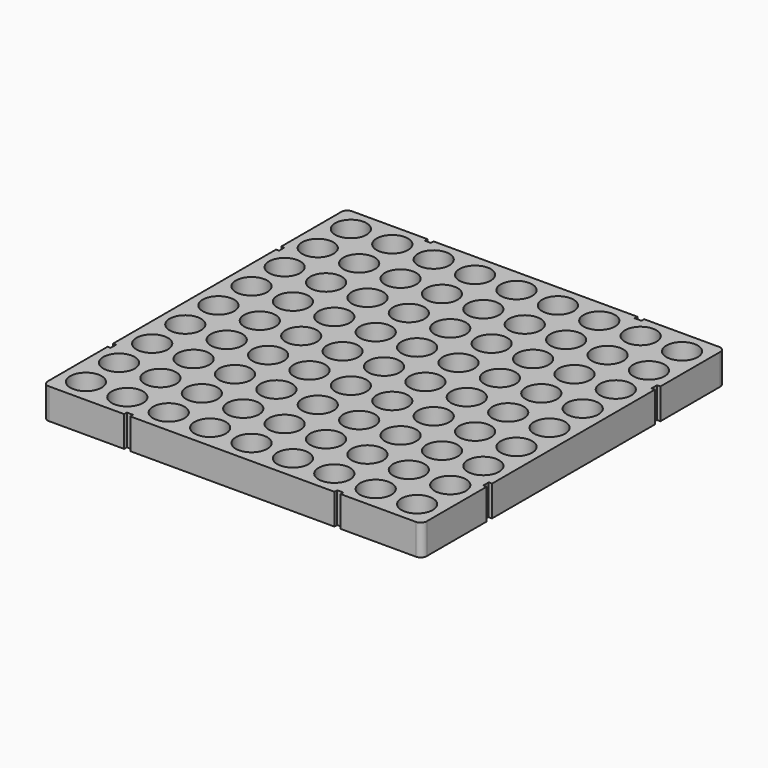
from build123d import *

# Parameters (mm, degrees)
F0_R     = 5.125
F2_DEPTH = 10
F1_W     = 2
F1_H     = 2.2
F1_W_2   = 2.2
F3_DEPTH = 10


with BuildPart() as f2:
    # F0 (on Top) → F2 (new body)
    with BuildSketch(Plane.XY):
        with BuildLine():
            ThreePointArc((61.8, 59.8), (61.214214, 61.214214), (59.8, 61.8))
            Line((59.8, 61.8), (-59.8, 61.8))
            ThreePointArc((-59.8, 61.8), (-61.214214, 61.214214), (-61.8, 59.8))
            Line((-61.8, 59.8), (-61.8, -59.8))
            ThreePointArc((-61.8, -59.8), (-61.214214, -61.214214), (-59.8, -61.8))
            Line((-59.8, -61.8), (59.8, -61.8))
            ThreePointArc((59.8, -61.8), (61.214214, -61.214214), (61.8, -59.8))
            Line((61.8, -59.8), (61.8, 59.8))
        make_face()
        with Locations((-54, -54)):
            Circle(F0_R, mode=Mode.SUBTRACT)
        with Locations((-40.5, -54)):
            Circle(F0_R, mode=Mode.SUBTRACT)
        with Locations((-54, -40.5)):
            Circle(F0_R, mode=Mode.SUBTRACT)
        with Locations((-40.5, -40.5)):
            Circle(F0_R, mode=Mode.SUBTRACT)
        with Locations((-27, -54)):
            Circle(F0_R, mode=Mode.SUBTRACT)
        with Locations((-13.5, -54)):
            Circle(F0_R, mode=Mode.SUBTRACT)
        with Locations((-27, -40.5)):
            Circle(F0_R, mode=Mode.SUBTRACT)
        with Locations((-13.5, -40.5)):
            Circle(F0_R, mode=Mode.SUBTRACT)
        with Locations((-54, -27)):
            Circle(F0_R, mode=Mode.SUBTRACT)
        with Locations((-40.5, -27)):
            Circle(F0_R, mode=Mode.SUBTRACT)
        with Locations((-54, -13.5)):
            Circle(F0_R, mode=Mode.SUBTRACT)
        with Locations((-40.5, -13.5)):
            Circle(F0_R, mode=Mode.SUBTRACT)
        with Locations((-27, -27)):
            Circle(F0_R, mode=Mode.SUBTRACT)
        with Locations((-13.5, -27)):
            Circle(F0_R, mode=Mode.SUBTRACT)
        with Locations((-27, -13.5)):
            Circle(F0_R, mode=Mode.SUBTRACT)
        with Locations((-13.5, -13.5)):
            Circle(F0_R, mode=Mode.SUBTRACT)
        with Locations((0, -54)):
            Circle(F0_R, mode=Mode.SUBTRACT)
        with Locations((13.5, -54)):
            Circle(F0_R, mode=Mode.SUBTRACT)
        with Locations((27, -54)):
            Circle(F0_R, mode=Mode.SUBTRACT)
        with Locations((0, -40.5)):
            Circle(F0_R, mode=Mode.SUBTRACT)
        with Locations((13.5, -40.5)):
            Circle(F0_R, mode=Mode.SUBTRACT)
        with Locations((27, -40.5)):
            Circle(F0_R, mode=Mode.SUBTRACT)
        with Locations((40.5, -54)):
            Circle(F0_R, mode=Mode.SUBTRACT)
        with Locations((54, -54)):
            Circle(F0_R, mode=Mode.SUBTRACT)
        with Locations((40.5, -40.5)):
            Circle(F0_R, mode=Mode.SUBTRACT)
        with Locations((54, -40.5)):
            Circle(F0_R, mode=Mode.SUBTRACT)
        with Locations((0, -27)):
            Circle(F0_R, mode=Mode.SUBTRACT)
        with Locations((13.5, -27)):
            Circle(F0_R, mode=Mode.SUBTRACT)
        with Locations((27, -27)):
            Circle(F0_R, mode=Mode.SUBTRACT)
        with Locations((0, -13.5)):
            Circle(F0_R, mode=Mode.SUBTRACT)
        with Locations((13.5, -13.5)):
            Circle(F0_R, mode=Mode.SUBTRACT)
        with Locations((27, -13.5)):
            Circle(F0_R, mode=Mode.SUBTRACT)
        with Locations((40.5, -27)):
            Circle(F0_R, mode=Mode.SUBTRACT)
        with Locations((54, -27)):
            Circle(F0_R, mode=Mode.SUBTRACT)
        with Locations((40.5, -13.5)):
            Circle(F0_R, mode=Mode.SUBTRACT)
        with Locations((54, -13.5)):
            Circle(F0_R, mode=Mode.SUBTRACT)
        with Locations((-54, 0)):
            Circle(F0_R, mode=Mode.SUBTRACT)
        with Locations((-54, 13.5)):
            Circle(F0_R, mode=Mode.SUBTRACT)
        with Locations((-40.5, 0)):
            Circle(F0_R, mode=Mode.SUBTRACT)
        with Locations((-40.5, 13.5)):
            Circle(F0_R, mode=Mode.SUBTRACT)
        with Locations((-54, 27)):
            Circle(F0_R, mode=Mode.SUBTRACT)
        with Locations((-40.5, 27)):
            Circle(F0_R, mode=Mode.SUBTRACT)
        with Locations((-27, 0)):
            Circle(F0_R, mode=Mode.SUBTRACT)
        with Locations((-27, 13.5)):
            Circle(F0_R, mode=Mode.SUBTRACT)
        with Locations((-13.5, 0)):
            Circle(F0_R, mode=Mode.SUBTRACT)
        with Locations((-13.5, 13.5)):
            Circle(F0_R, mode=Mode.SUBTRACT)
        with Locations((-27, 27)):
            Circle(F0_R, mode=Mode.SUBTRACT)
        with Locations((-13.5, 27)):
            Circle(F0_R, mode=Mode.SUBTRACT)
        with Locations((-54, 40.5)):
            Circle(F0_R, mode=Mode.SUBTRACT)
        with Locations((-40.5, 40.5)):
            Circle(F0_R, mode=Mode.SUBTRACT)
        with Locations((-54, 54)):
            Circle(F0_R, mode=Mode.SUBTRACT)
        with Locations((-40.5, 54)):
            Circle(F0_R, mode=Mode.SUBTRACT)
        with Locations((-27, 40.5)):
            Circle(F0_R, mode=Mode.SUBTRACT)
        with Locations((-13.5, 40.5)):
            Circle(F0_R, mode=Mode.SUBTRACT)
        with Locations((-27, 54)):
            Circle(F0_R, mode=Mode.SUBTRACT)
        with Locations((-13.5, 54)):
            Circle(F0_R, mode=Mode.SUBTRACT)
        Circle(F0_R, mode=Mode.SUBTRACT)
        with Locations((13.5, 0)):
            Circle(F0_R, mode=Mode.SUBTRACT)
        with Locations((0, 13.5)):
            Circle(F0_R, mode=Mode.SUBTRACT)
        with Locations((13.5, 13.5)):
            Circle(F0_R, mode=Mode.SUBTRACT)
        with Locations((27, 0)):
            Circle(F0_R, mode=Mode.SUBTRACT)
        with Locations((27, 13.5)):
            Circle(F0_R, mode=Mode.SUBTRACT)
        with Locations((0, 27)):
            Circle(F0_R, mode=Mode.SUBTRACT)
        with Locations((13.5, 27)):
            Circle(F0_R, mode=Mode.SUBTRACT)
        with Locations((27, 27)):
            Circle(F0_R, mode=Mode.SUBTRACT)
        with Locations((40.5, 0)):
            Circle(F0_R, mode=Mode.SUBTRACT)
        with Locations((40.5, 13.5)):
            Circle(F0_R, mode=Mode.SUBTRACT)
        with Locations((54, 0)):
            Circle(F0_R, mode=Mode.SUBTRACT)
        with Locations((54, 13.5)):
            Circle(F0_R, mode=Mode.SUBTRACT)
        with Locations((40.5, 27)):
            Circle(F0_R, mode=Mode.SUBTRACT)
        with Locations((54, 27)):
            Circle(F0_R, mode=Mode.SUBTRACT)
        with Locations((0, 40.5)):
            Circle(F0_R, mode=Mode.SUBTRACT)
        with Locations((13.5, 40.5)):
            Circle(F0_R, mode=Mode.SUBTRACT)
        with Locations((27, 40.5)):
            Circle(F0_R, mode=Mode.SUBTRACT)
        with Locations((0, 54)):
            Circle(F0_R, mode=Mode.SUBTRACT)
        with Locations((13.5, 54)):
            Circle(F0_R, mode=Mode.SUBTRACT)
        with Locations((27, 54)):
            Circle(F0_R, mode=Mode.SUBTRACT)
        with Locations((40.5, 40.5)):
            Circle(F0_R, mode=Mode.SUBTRACT)
        with Locations((54, 40.5)):
            Circle(F0_R, mode=Mode.SUBTRACT)
        with Locations((40.5, 54)):
            Circle(F0_R, mode=Mode.SUBTRACT)
        with Locations((54, 54)):
            Circle(F0_R, mode=Mode.SUBTRACT)
    extrude(amount=F2_DEPTH)

    # F1 (on Top) → F3 (cut)
    with BuildSketch(Plane.XY):
        with Locations((-34.3, 61.8)):
            Rectangle(F1_W, F1_H)
        with Locations((34.3, 61.8)):
            Rectangle(F1_W_2, F1_H)
        with Locations((61.8, 34.3)):
            Rectangle(F1_W_2, F1_H)
        with Locations((61.8, -34.3)):
            Rectangle(F1_W_2, F1_H)
        with Locations((34.3, -61.8)):
            Rectangle(F1_W, F1_H)
        with Locations((-34.3, -61.8)):
            Rectangle(F1_W, F1_H)
        with Locations((-61.8, -34.3)):
            Rectangle(F1_W, F1_H)
        with Locations((-61.8, 34.3)):
            Rectangle(F1_W, F1_H)
    extrude(amount=F3_DEPTH, mode=Mode.SUBTRACT)


solid = f2.part
